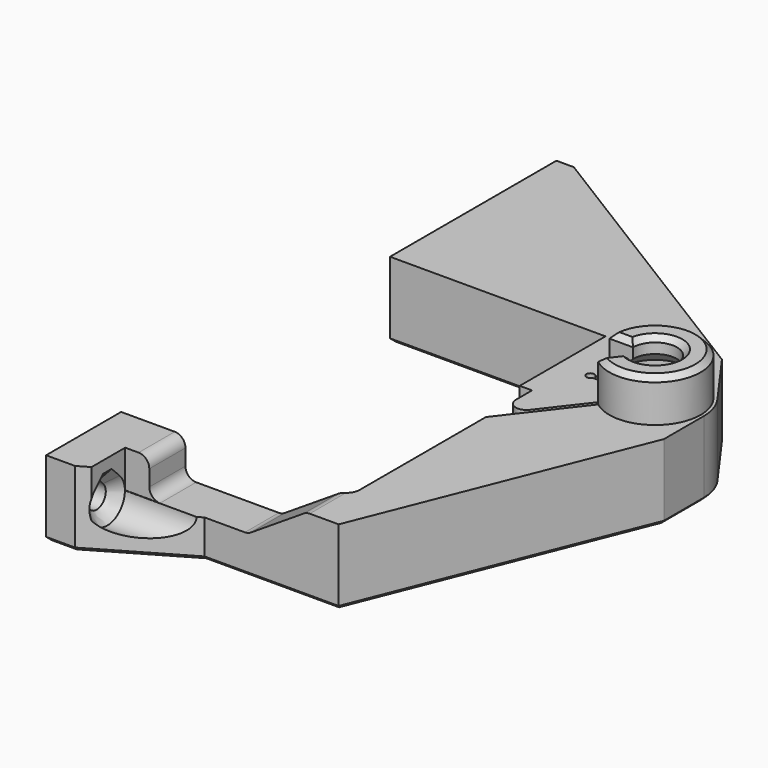
from build123d import *

# Parameters (mm, degrees)
PAD_DEPTH       = 22
SKETCH001_W     = 70
SKETCH001_H     = 120
POCKET_DEPTH    = 8
SKETCH002_R     = 6.15
POCKET001_DEPTH = 17.1
POCKET002_DEPTH = 20
SKETCH016_W     = 40
SKETCH016_H     = 7
POCKET003_DEPTH = 9.75
FILLET_R        = 2
CHAMFER_SIZE    = 2
CHAMFER001_SIZE = 1
CHAMFER002_SIZE = 0.6


with BuildPart() as part:
    # Sketch → Pad (new body)
    with BuildSketch(Plane.XY.offset(0.14)):
        with BuildLine():
            Line((0.58, 0.68), (5.98, 0.68))
            Line((5.98, 0.68), (22.48, 10.28))
            Line((22.48, 10.28), (47.48, 10.28))
            Line((47.48, 10.28), (67.68, 60.88))
            Line((67.68, 60.88), (67.68, 70.18))
            ThreePointArc((67.68, 70.18), (67.242303, 72.968279), (65.971319, 75.488333))
            Line((65.971319, 75.488333), (58.58, 85.78))
            Line((58.58, 85.78), (3.83, 119.68))
            Line((3.83, 119.68), (0.58, 119.68))
            Line((0.58, 119.68), (0.58, 80.88))
            Line((0.58, 80.88), (40.78, 80.88))
            Line((40.78, 80.88), (40.78, 60.88))
            Line((40.78, 60.88), (43.08, 60.88))
            Line((43.08, 60.88), (43.08, 51.263042))
            Line((43.08, 51.263042), (54.290462, 65.772919))
            ThreePointArc((52.469967, 69.48), (53.05973, 67.469074), (54.290462, 65.772919))
            Line((52.469967, 69.48), (47.469967, 69.48))
            ThreePointArc((47.469967, 70.18), (46.056642, 69.83), (47.469967, 69.48))
            Line((47.469967, 70.18), (54.48, 70.18))
            ThreePointArc((56.073305, 66.935546), (62.26018, 71.987284), (54.48, 70.18))
            Line((56.073305, 66.935546), (43.08, 50.118108))
            Line((43.08, 50.118108), (43.08, 20.68))
            ThreePointArc((40.58, 18.18), (42.347767, 18.912233), (43.08, 20.68))
            Line((40.58, 18.18), (0.58, 18.18))
            Line((0.58, 18.18), (0.58, 0.68))
        make_face()
    extrude(amount=PAD_DEPTH)

    # Sketch001 → Pocket (cut)
    with BuildSketch(Plane.XY.offset(22.14)):
        with Locations((35, 60.68)):
            Rectangle(SKETCH001_W, SKETCH001_H)
        with BuildLine():
            ThreePointArc((53.350985, 63.453351), (66.233156, 73.924275), (50.06, 70.18))
            Line((50.06, 70.18), (58.58, 70.18))
            Line((53.350985, 63.453351), (58.58, 70.18))
        make_face(mode=Mode.SUBTRACT)
    extrude(amount=-POCKET_DEPTH, mode=Mode.SUBTRACT)

    # Sketch002 → Pocket001 (cut)
    with BuildSketch(Plane.XY.offset(0.14)):
        with Locations((58.58, 70.18)):
            Circle(SKETCH002_R)
    extrude(amount=POCKET001_DEPTH, mode=Mode.SUBTRACT)

    # Sketch003 → SubtractiveLoft section 0
    with BuildSketch(Plane.YZ.offset(0.58)):
        with BuildLine():
            ThreePointArc((4.05972, 8.66028), (5.58, 4.99), (7.10028, 8.66028))
            Line((6.08, 9.680559), (7.10028, 8.66028))
            Line((5.08, 9.680559), (6.08, 9.680559))
            Line((4.05972, 8.66028), (5.08, 9.680559))
        make_face()
    # Sketch004 → SubtractiveLoft section 1
    with BuildSketch(Plane.YZ.offset(6.08)):
        with BuildLine():
            ThreePointArc((4.05972, 8.66028), (5.58, 4.99), (7.10028, 8.66028))
            Line((6.08, 9.680559), (7.10028, 8.66028))
            Line((5.08, 9.680559), (6.08, 9.680559))
            Line((4.05972, 8.66028), (5.08, 9.680559))
        make_face()
    # Sketch005 → SubtractiveLoft section 2
    with BuildSketch(Plane.YZ.offset(8.08)):
        with BuildLine():
            ThreePointArc((2.680862, 10.039138), (5.58, 3.04), (8.479138, 10.039138))
            Line((6.58, 11.938276), (8.479138, 10.039138))
            Line((4.58, 11.938276), (6.58, 11.938276))
            Line((2.680862, 10.039138), (4.58, 11.938276))
        make_face()
    # Sketch006 → SubtractiveLoft section 3
    with BuildSketch(Plane.YZ.offset(70)):
        with BuildLine():
            ThreePointArc((2.680862, 10.039138), (5.58, 3.04), (8.479138, 10.039138))
            Line((6.58, 11.938276), (8.479138, 10.039138))
            Line((4.58, 11.938276), (6.58, 11.938276))
            Line((2.680862, 10.039138), (4.58, 11.938276))
        make_face()
    loft(ruled=True, mode=Mode.SUBTRACT)

    # Sketch007 → SubtractiveLoft001 section 0
    with BuildSketch(Plane.YZ.offset(0.58)):
        with BuildLine():
            ThreePointArc((88.159711, 8.66027), (89.680012, 4.99), (91.200272, 8.660287))
            Line((91.200272, 8.660287), (90.179983, 9.680557))
            Line((89.179983, 9.680557), (90.179983, 9.680557))
            Line((88.159711, 8.66027), (89.179983, 9.680557))
        make_face()
    # Sketch010 → SubtractiveLoft001 section 1
    with BuildSketch(Plane.YZ.offset(6.08)):
        with BuildLine():
            ThreePointArc((88.159711, 8.66027), (89.680012, 4.99), (91.200272, 8.660287))
            Line((91.200272, 8.660287), (90.179983, 9.680557))
            Line((89.179983, 9.680557), (90.179983, 9.680557))
            Line((88.159711, 8.66027), (89.179983, 9.680557))
        make_face()
    # Sketch009 → SubtractiveLoft001 section 2
    with BuildSketch(Plane.YZ.offset(8.08)):
        with BuildLine():
            ThreePointArc((86.780871, 10.039146), (89.679993, 3.04), (92.579139, 10.039136))
            Line((92.579139, 10.039136), (90.68001, 11.938283))
            Line((88.68001, 11.938283), (90.68001, 11.938283))
            Line((86.780871, 10.039146), (88.68001, 11.938283))
        make_face()
    # Sketch008 → SubtractiveLoft001 section 3
    with BuildSketch(Plane.YZ.offset(70)):
        with BuildLine():
            ThreePointArc((86.780871, 10.039146), (89.679993, 3.04), (92.579139, 10.039136))
            Line((92.579139, 10.039136), (90.68001, 11.938283))
            Line((88.68001, 11.938283), (90.68001, 11.938283))
            Line((86.780871, 10.039146), (88.68001, 11.938283))
        make_face()
    loft(ruled=True, mode=Mode.SUBTRACT)

    # Sketch011 → SubtractiveLoft002 section 0
    with BuildSketch(Plane.YZ.offset(0.58)):
        with BuildLine():
            ThreePointArc((108.159721, 8.66028), (109.68, 4.99), (111.20028, 8.660279))
            Line((110.180001, 9.680559), (111.20028, 8.660279))
            Line((109.180001, 9.680559), (110.180001, 9.680559))
            Line((108.159721, 8.66028), (109.180001, 9.680559))
        make_face()
    # Sketch014 → SubtractiveLoft002 section 1
    with BuildSketch(Plane.YZ.offset(6.08)):
        with BuildLine():
            ThreePointArc((108.159721, 8.66028), (109.68, 4.99), (111.20028, 8.660279))
            Line((110.180001, 9.680559), (111.20028, 8.660279))
            Line((109.180001, 9.680559), (110.180001, 9.680559))
            Line((108.159721, 8.66028), (109.180001, 9.680559))
        make_face()
    # Sketch013 → SubtractiveLoft002 section 2
    with BuildSketch(Plane.YZ.offset(8.08)):
        with BuildLine():
            ThreePointArc((106.78087, 10.039146), (109.679997, 3.04), (112.579134, 10.039142))
            Line((110.680004, 11.938288), (112.579134, 10.039142))
            Line((108.680004, 11.938288), (110.680004, 11.938288))
            Line((106.78087, 10.039146), (108.680004, 11.938288))
        make_face()
    # Sketch012 → SubtractiveLoft002 section 3
    with BuildSketch(Plane.YZ.offset(70)):
        with BuildLine():
            ThreePointArc((106.780872, 10.039147), (109.679995, 3.04), (112.579135, 10.039141))
            Line((110.680006, 11.938288), (112.579135, 10.039141))
            Line((108.680006, 11.938288), (110.680006, 11.938288))
            Line((106.780872, 10.039147), (108.680006, 11.938288))
        make_face()
    loft(ruled=True, mode=Mode.SUBTRACT)

    # Sketch015 → Pocket002 (cut)
    with BuildSketch(Plane.XZ):
        Polygon((12.58, 14.14), (12.58, 7.14), (30.58, 7.14), (41.5, 14.14), align=None)
    extrude(amount=-POCKET002_DEPTH, mode=Mode.SUBTRACT)

    # Sketch016 → Pocket003 (cut)
    with BuildSketch(Plane.XZ):
        with Locations((28.08, 10.64)):
            Rectangle(SKETCH016_W, SKETCH016_H)
    extrude(amount=-POCKET003_DEPTH, mode=Mode.SUBTRACT)

    # Fillet
    fillet_edges = [part.edges().sort_by_distance(p)[0] for p in [
        (12.58, 13.965, 7.14),
        (12.58, 13.965, 14.14),
        (30.58, 14.23, 7.14),
        (41.5, 14.317718, 14.14),
        (43.08, 51.263042, 7.14),
    ]]
    fillet(fillet_edges, radius=FILLET_R)

    # Chamfer
    chamfer_edges = [part.edges().sort_by_distance(p)[0] for p in [
        (62.26018, 71.987284, 17.24),
    ]]
    chamfer(chamfer_edges, length=CHAMFER_SIZE)

    # Chamfer001
    chamfer001_edges = [part.edges().sort_by_distance(p)[0] for p in [
        (54.722136, 65.186706, 22.14),
        (52.27, 70.18, 22.14),
        (66.227593, 73.935625, 22.14),
        (62.26018, 71.987284, 22.14),
    ]]
    chamfer(chamfer001_edges, length=CHAMFER001_SIZE)

    # Chamfer002
    chamfer002_edges = [part.edges().sort_by_distance(p)[0] for p in [
        (50.476561, 60.836527, 0.14),
        (48.949979, 57.715713, 0.14),
        (61.290926, 64.65973, 0.14),
        (58.58, 76.33, 0.14),
        (53.05973, 67.469074, 0.14),
        (49.969967, 69.48, 0.14),
        (49.949984, 70.18, 0.14),
        (46.056642, 69.83, 0.14),
        (40.78, 70.88, 0.14),
        (41.93, 60.88, 0.14),
        (43.08, 59.001457, 0.14),
        (44.433982, 55.230121, 0.14),
        (20.68, 80.88, 0.14),
        (0.58, 100.28, 0.14),
        (2.205, 119.68, 0.14),
        (31.205, 102.73, 0.14),
        (62.27566, 80.634167, 0.14),
        (67.242303, 72.968279, 0.14),
        (67.68, 65.53, 0.14),
        (57.58, 35.58, 0.14),
        (34.98, 10.28, 0.14),
        (14.23, 5.48, 0.14),
        (3.28, 0.68, 0.14),
        (0.58, 9.43, 0.14),
        (20.58, 18.18, 0.14),
        (42.347767, 18.912233, 0.14),
        (43.08, 35.399054, 0.14),
    ]]
    chamfer(chamfer002_edges, length=CHAMFER002_SIZE)


solid = part.part
